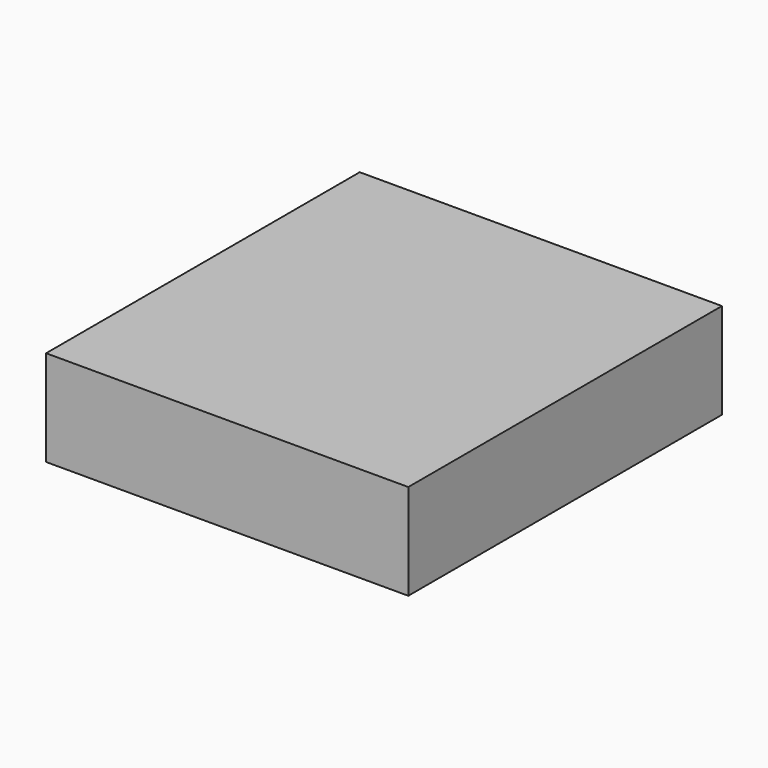
from build123d import *

# Parameters (mm, degrees)
F0_W      = 101.618544
F0_H      = 26.864673
F1_DEPTH  = 109.982
F1_FACE_W = 101.618544
F1_FACE_H = 109.982
F2_DEPTH  = 11.684


with BuildPart() as f1:
    # F0 (on Front) → F1 (new body)
    with BuildSketch(Plane.XZ):
        with Locations((4.769452, -18.785804)):
            Rectangle(F0_W, F0_H)
    extrude(amount=F1_DEPTH)

    # F1_face (on face) → F2 (join)
    with BuildSketch(Plane(origin=(4.769452, -54.991, -5.353467), x_dir=(1, 0, 0), z_dir=(0, 0, 1))):
        Rectangle(F1_FACE_W, F1_FACE_H)
    extrude(amount=-F2_DEPTH)


solid = f1.part
